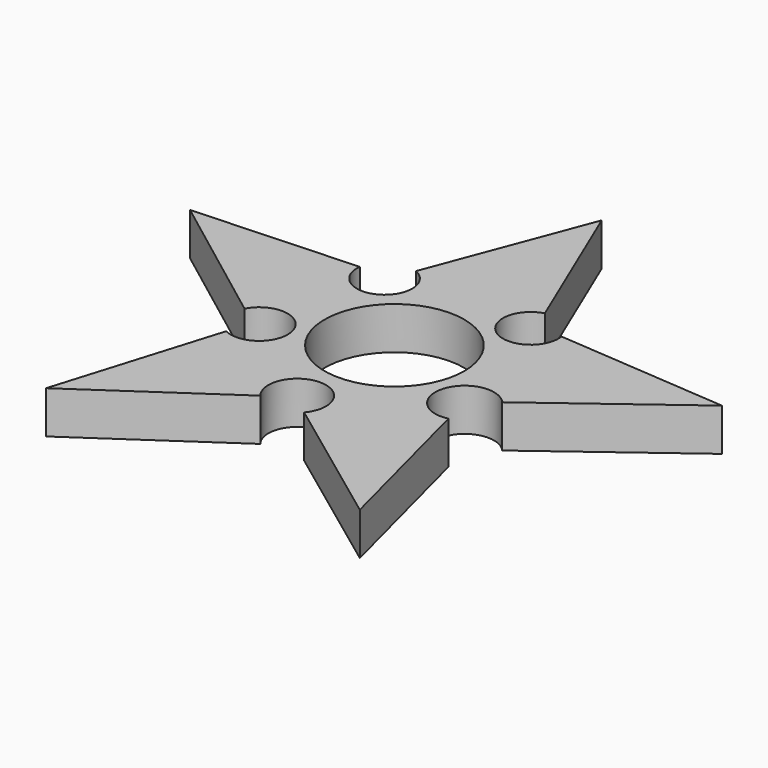
from build123d import *

# Parameters (mm, degrees)
F2_DEPTH = 7
F3_R     = 11.5
F4_DEPTH = 25.4


with BuildPart() as f2:
    # F1 (on Top) → F2 (new body)
    with BuildSketch(Plane.XY):
        with BuildLine():
            ThreePointArc((-10.747828, 17.888175), (-10.389928, 9.784178), (-17.137527, 14.286707))
            Line((-17.137527, 14.286707), (-44.084065, 13.019221))
            Line((-44.084065, 13.019221), (-21.436056, -4.069164))
            ThreePointArc((-21.436056, -4.069164), (-12.818896, -4.786043), (-19.344879, -10.458865))
            Line((-19.344879, -10.458865), (-27.523644, -37.316266))
            Line((-27.523644, -37.316266), (-4.706655, -21.727975))
            ThreePointArc((-4.706655, -21.727975), (-0.92379, -14.017584), (2.612456, -21.844152))
            Line((2.612456, -21.844152), (25.1483, -38.559195))
            Line((25.1483, -38.559195), (18.180093, -11.62063))
            ThreePointArc((18.180093, -11.62063), (12.489564, -5.416127), (20.735973, -3.720635))
            Line((20.735973, -3.720635), (43.389283, 13.194266))
            Line((43.389283, 13.194266), (15.262693, 15.336566))
            ThreePointArc((15.262693, 15.336566), (8.257426, 10.799074), (9.541669, 19.046092))
            Line((9.541669, 19.046092), (-0.92379, 43.835886))
            Line((-0.92379, 43.835886), (-10.747828, 17.888175))
        make_face()
    extrude(amount=-F2_DEPTH)

    # F3 (on face) → F4 (cut)
    with BuildSketch(Plane.XY):
        Circle(F3_R)
    extrude(amount=-F4_DEPTH, mode=Mode.SUBTRACT)


solid = f2.part
